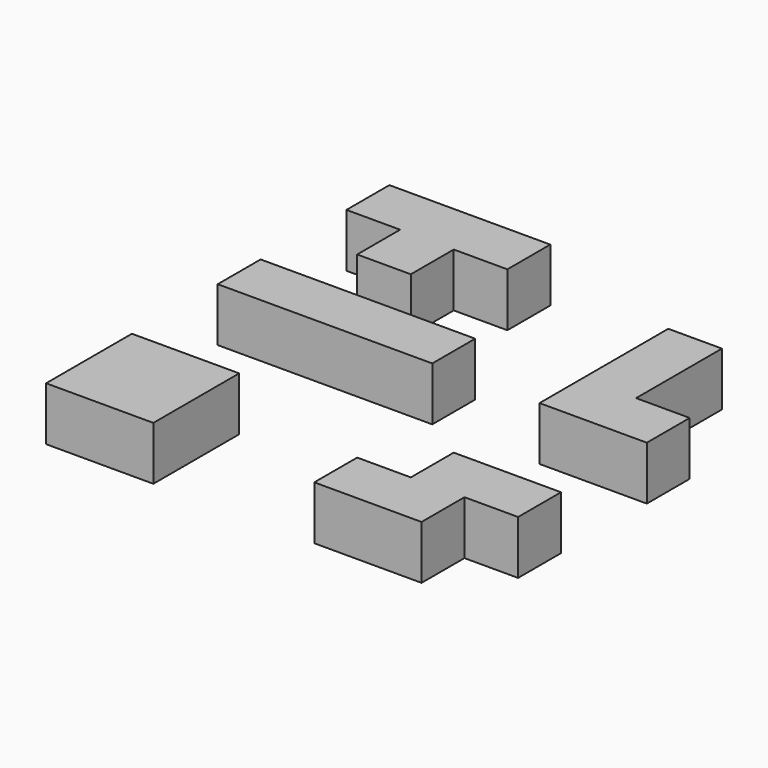
from build123d import *

# Parameters (mm, degrees)
BOX_W        = 40
BOX_H        = 10
BOX_DEPTH    = 10
BOX001_W     = 30
BOX001_H     = 10
BOX001_DEPTH = 10
BOX002_W     = 10
BOX002_H     = 10
BOX002_DEPTH = 10
BOX003_W     = 10
BOX003_H     = 10
BOX003_DEPTH = 10
BOX004_W     = 10
BOX004_H     = 10
BOX004_DEPTH = 10
BOX005_W     = 10
BOX005_H     = 10
BOX005_DEPTH = 10
BOX006_W     = 10
BOX006_H     = 10
BOX006_DEPTH = 10
BOX007_W     = 30
BOX007_H     = 10
BOX007_DEPTH = 10
BOX008_W     = 10
BOX008_H     = 10
BOX008_DEPTH = 10
BOX009_W     = 10
BOX009_H     = 10
BOX009_DEPTH = 10
BOX010_W     = 10
BOX010_H     = 10
BOX010_DEPTH = 10
BOX011_W     = 10
BOX011_H     = 10
BOX011_DEPTH = 10
BOX012_W     = 10
BOX012_H     = 10
BOX012_DEPTH = 10


with BuildPart() as cub:
    # Box → Box (new body)
    with BuildSketch(Plane.XY):
        with Locations((20, 5)):
            Rectangle(BOX_W, BOX_H)
    extrude(amount=BOX_DEPTH)


with BuildPart() as cub001:
    # Box001 → Box001 (new body)
    with BuildSketch(Plane(origin=(0, 30, 0), x_dir=(1, 0, 0), z_dir=(0, 0, 1))):
        with Locations((15, 5)):
            Rectangle(BOX001_W, BOX001_H)
    extrude(amount=BOX001_DEPTH)


with BuildPart() as fusion:
    # Box002 → Box002 (new body)
    with BuildSketch(Plane(origin=(10, 20, 0), x_dir=(1, 0, 0), z_dir=(0, 0, 1))):
        with Locations((5, 5)):
            Rectangle(BOX002_W, BOX002_H)
    extrude(amount=BOX002_DEPTH)

    # Fusion: union Cub001
    add(cub001.part)


with BuildPart() as cub003:
    # Box003 → Box003 (new body)
    with BuildSketch(Plane(origin=(0, -30, 0), x_dir=(1, 0, 0), z_dir=(0, 0, 1))):
        with Locations((5, 5)):
            Rectangle(BOX003_W, BOX003_H)
    extrude(amount=BOX003_DEPTH)


with BuildPart() as cub004:
    # Box004 → Box004 (new body)
    with BuildSketch(Plane(origin=(10, -30, 0), x_dir=(1, 0, 0), z_dir=(0, 0, 1))):
        with Locations((5, 5)):
            Rectangle(BOX004_W, BOX004_H)
    extrude(amount=BOX004_DEPTH)


with BuildPart() as cub005:
    # Box005 → Box005 (new body)
    with BuildSketch(Plane(origin=(0, -40, 0), x_dir=(1, 0, 0), z_dir=(0, 0, 1))):
        with Locations((5, 5)):
            Rectangle(BOX005_W, BOX005_H)
    extrude(amount=BOX005_DEPTH)


with BuildPart() as fusion001:
    # Box006 → Box006 (new body)
    with BuildSketch(Plane(origin=(10, -40, 0), x_dir=(1, 0, 0), z_dir=(0, 0, 1))):
        with Locations((5, 5)):
            Rectangle(BOX006_W, BOX006_H)
    extrude(amount=BOX006_DEPTH)

    # Fusion001: union Cub003, Cub004, Cub005
    add(cub003.part)
    add(cub004.part)
    add(cub005.part)


with BuildPart() as cub007:
    # Box007 → Box007 (new body)
    with BuildSketch(Plane(origin=(70, 0, 0), x_dir=(0, 1, 0), z_dir=(0, 0, 1))):
        with Locations((15, 5)):
            Rectangle(BOX007_W, BOX007_H)
    extrude(amount=BOX007_DEPTH)


with BuildPart() as fusion002:
    # Box008 → Box008 (new body)
    with BuildSketch(Plane(origin=(70, 0, 0), x_dir=(1, 0, 0), z_dir=(0, 0, 1))):
        with Locations((5, 5)):
            Rectangle(BOX008_W, BOX008_H)
    extrude(amount=BOX008_DEPTH)

    # Fusion002: union Cub007
    add(cub007.part)


with BuildPart() as cub009:
    # Box009 → Box009 (new body)
    with BuildSketch(Plane(origin=(50, -40, 0), x_dir=(1, 0, 0), z_dir=(0, 0, 1))):
        with Locations((5, 5)):
            Rectangle(BOX009_W, BOX009_H)
    extrude(amount=BOX009_DEPTH)


with BuildPart() as cub010:
    # Box010 → Box010 (new body)
    with BuildSketch(Plane(origin=(60, -40, 0), x_dir=(1, 0, 0), z_dir=(0, 0, 1))):
        with Locations((5, 5)):
            Rectangle(BOX010_W, BOX010_H)
    extrude(amount=BOX010_DEPTH)


with BuildPart() as cub011:
    # Box011 → Box011 (new body)
    with BuildSketch(Plane(origin=(60, -30, 0), x_dir=(1, 0, 0), z_dir=(0, 0, 1))):
        with Locations((5, 5)):
            Rectangle(BOX011_W, BOX011_H)
    extrude(amount=BOX011_DEPTH)


with BuildPart() as fusion003:
    # Box012 → Box012 (new body)
    with BuildSketch(Plane(origin=(70, -30, 0), x_dir=(1, 0, 0), z_dir=(0, 0, 1))):
        with Locations((5, 5)):
            Rectangle(BOX012_W, BOX012_H)
    extrude(amount=BOX012_DEPTH)

    # Fusion003: union Cub009, Cub010, Cub011
    add(cub009.part)
    add(cub010.part)
    add(cub011.part)


solid = Compound([cub.part, fusion.part, fusion001.part, fusion002.part, fusion003.part])
